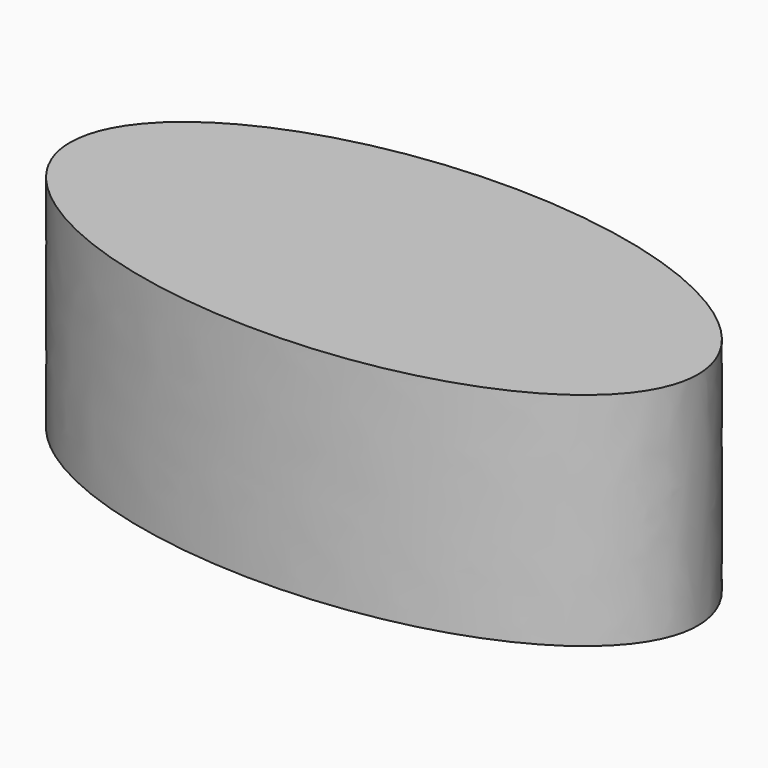
from build123d import *

# Parameters (mm, degrees)
F1_DEPTH = 50.8
F3_DEPTH = 40.830202


with BuildPart() as f1:
    # F0 (on Top) → F1 (new body)
    with BuildSketch(Plane.XY):
        with BuildLine():
            add(Edge.make_bspline(
                [(72.138093, 0), (72.138093, 62.16545), (-36.069047, 31.082725), (-144.276187, 0), (-36.069047, -31.082725), (72.138093, -62.16545), (72.138093, 0)],
                knots=[0, 0, 0, 2.094395, 2.094395, 4.18879, 4.18879, 6.283185, 6.283185, 6.283185], degree=2, weights=[1, 0.5, 1, 0.5, 1, 0.5, 1]))
        make_face()
    extrude(amount=F1_DEPTH)

    # F2 (on face) → F3 (join)
    with BuildSketch(Plane.XY.offset(50.8)):
        with BuildLine():
            add(Edge.make_bspline(
                [(72.138093, 0), (72.138093, 62.16545), (-36.069047, 31.082725), (-144.276187, 0), (-36.069047, -31.082725), (72.138093, -62.16545), (72.138093, 0)],
                knots=[0, 0, 0, 2.094395, 2.094395, 4.18879, 4.18879, 6.283185, 6.283185, 6.283185], degree=2, weights=[1, 0.5, 1, 0.5, 1, 0.5, 1]))
        make_face()
    extrude(amount=-F3_DEPTH)


solid = f1.part
